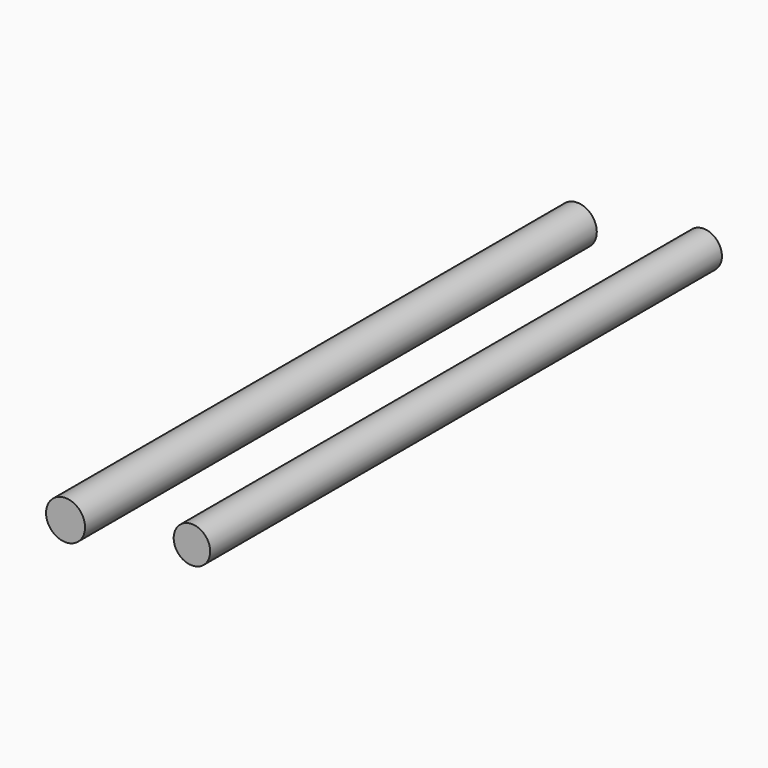
from build123d import *

# Parameters (mm, degrees)
F0_R     = 7.0180252072
F1_DEPTH = 100
F2_R     = 7.5002480587
F3_DEPTH = 25
F4_DEPTH = 100
F5_DEPTH = 100
F6_DEPTH = 25
F7_DEPTH = 70
F8_DEPTH = 26
F9_DEPTH = 46


with BuildPart() as f1:
    # F0 (on Front) → F1 (new body)
    with BuildSketch(Plane.XZ):
        Circle(F0_R)
    extrude(amount=F1_DEPTH)

    # F5 (add): a face of the model
    f5_faces = [f1.faces().sort_by_distance(p)[0] for p in [
        (0, -100, 0),
    ]]
    extrude(f5_faces, amount=F5_DEPTH)

    # F9 (add): a face of the model
    f9_faces = [f1.faces().sort_by_distance(p)[0] for p in [
        (0, -200, 0),
    ]]
    extrude(f9_faces, amount=F9_DEPTH)


with BuildPart() as f3:
    # F2 (on Front) → F3 (new body)
    with BuildSketch(Plane.XZ):
        with Locations((-48.6049484462, -7.4620740644)):
            Circle(F2_R)
    extrude(amount=F3_DEPTH)

    # F4 (add): a face of the model
    f4_faces = [f3.faces().sort_by_distance(p)[0] for p in [
        (-48.6049484462, -25, -7.4620740644),
    ]]
    extrude(f4_faces, amount=F4_DEPTH)

    # F6 (add): a face of the model
    f6_faces = [f3.faces().sort_by_distance(p)[0] for p in [
        (-48.6049484462, -125, -7.4620740644),
    ]]
    extrude(f6_faces, amount=F6_DEPTH)

    # F7 (add): a face of the model
    f7_faces = [f3.faces().sort_by_distance(p)[0] for p in [
        (-48.6049484462, -150, -7.4620740644),
    ]]
    extrude(f7_faces, amount=F7_DEPTH)

    # F8 (add): a face of the model
    f8_faces = [f3.faces().sort_by_distance(p)[0] for p in [
        (-48.6049484462, -220, -7.4620740644),
    ]]
    extrude(f8_faces, amount=F8_DEPTH)


solid = Compound([f1.part, f3.part])
